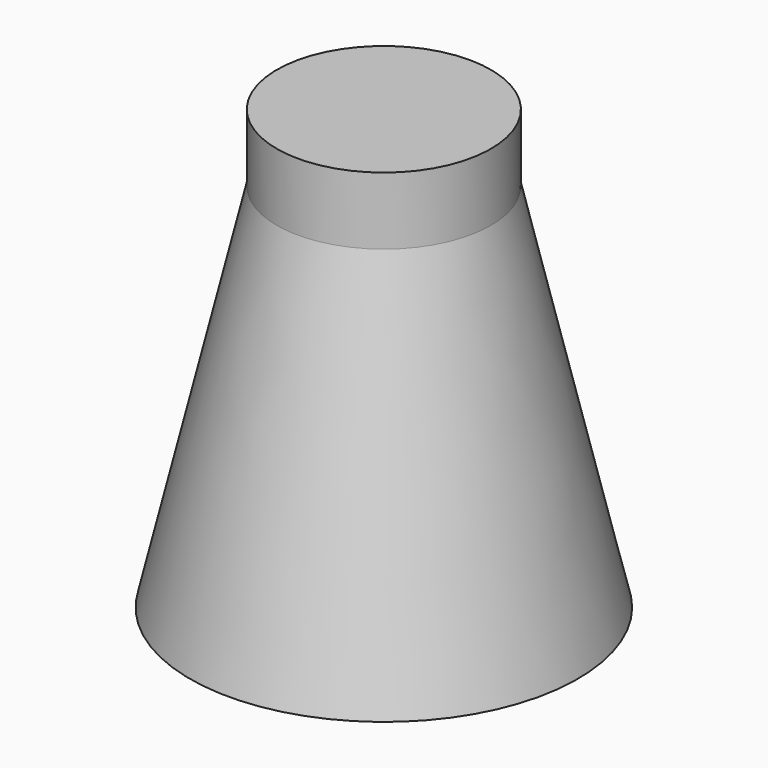
from build123d import *


with BuildPart() as f1:
    # F0 (on Right) → F1 (revolve)
    with BuildSketch(Plane.YZ):
        Polygon((0, 26), (0, 0), (11.5, 0), (6.35, 22), (6.35, 26), align=None)
    revolve(axis=Axis((0, 0, 13), (0, 0, -1)))


solid = f1.part
